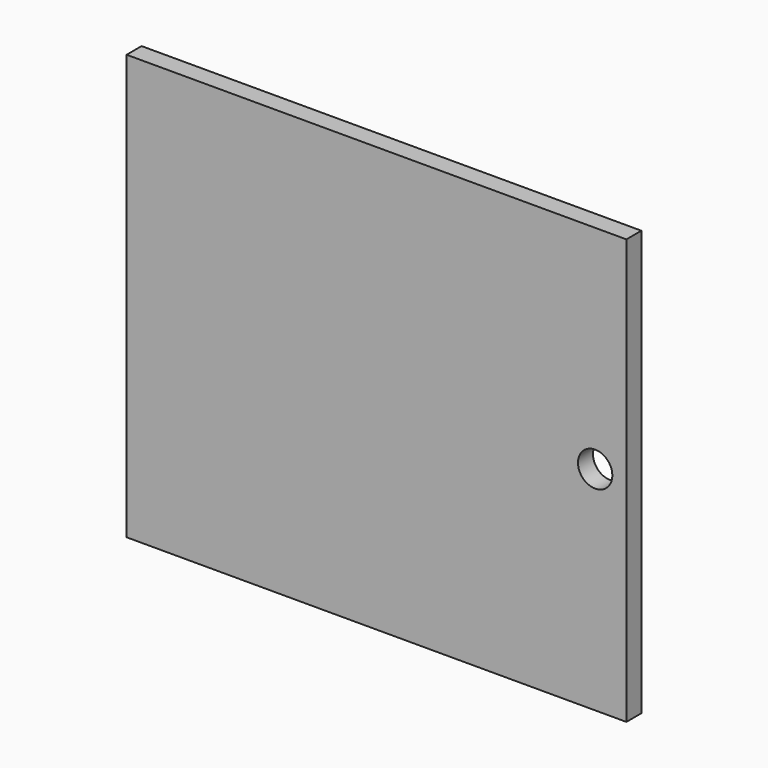
from build123d import *

# Parameters (mm, degrees)
F0_W     = 80
F0_H     = 68
F0_R     = 2.75
F1_DEPTH = 3
F3_ANGLE = 180


with BuildPart() as f1:
    # F0 (on Front) → F1 (new body)
    with BuildSketch(Plane.XZ):
        with Locations((-45.665469, 40.798562)):
            Rectangle(F0_W, F0_H)
        with Locations((-10.665469, 40.798562)):
            Circle(F0_R, mode=Mode.SUBTRACT)
    extrude(amount=F1_DEPTH)


with BuildPart() as f3_1:
    # F3: copy of F1
    add(f1.part.rotate(Axis((-5.665469, -1.5, 40.798562), (0, 1, 0)), F3_ANGLE))


solid = f1.part
